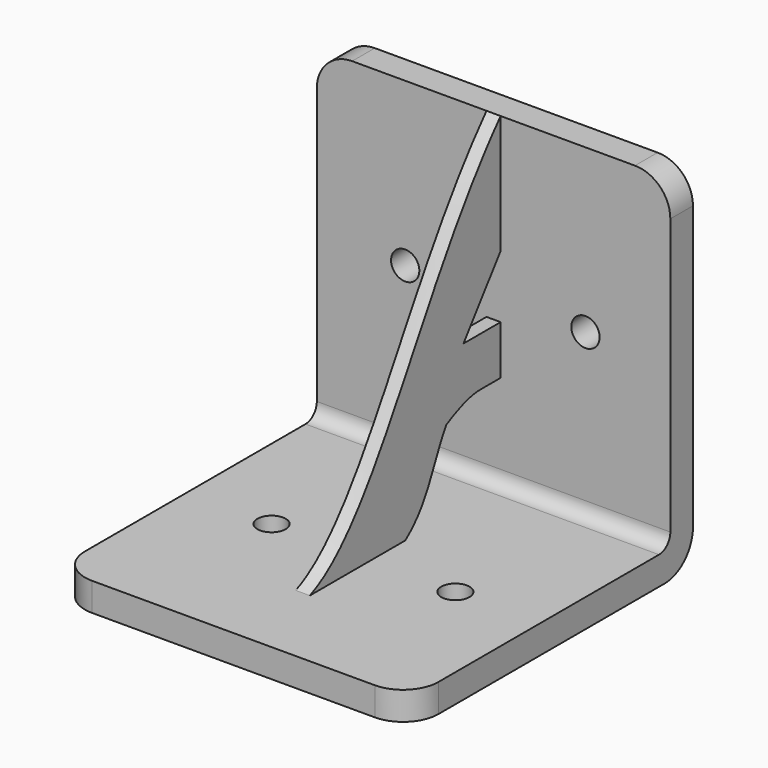
from build123d import *

# Parameters (mm, degrees)
F1_DEPTH         = 50
F3_DEPTH         = 46
F5_DEPTH         = 25
F7_DEPTH         = 25
F8_W             = 3.4296980606
F8_H             = 1.9268138267
F9_DEPTH         = 25
F12_D            = 4
F12_DEPTH        = 16
F12_TIP          = 1.2017212381
F12_ON_F11_D     = 4
F12_ON_F11_DEPTH = 16
F12_ON_F11_TIP   = 1.2017212381
F13_R            = 5
F14_R            = 2
F15_R            = 5


with BuildPart() as f1:
    # F0 (on Right) → F1 (new body)
    with BuildSketch(Plane.YZ):
        Polygon((-50, 4), (-50, 0), (0, 0), (0, 50), (-4, 50), (-4, 4), align=None)
    extrude(amount=F1_DEPTH)

    # F2 (on face) → F3 (join)
    with BuildSketch(Plane.XZ.offset(4)):
        Polygon((25, 50), (24, 50), (24, 4), (26, 4), (26, 50), align=None)
    extrude(amount=F3_DEPTH)

    # F4 (on face) → F5 (cut)
    with BuildSketch(Plane(origin=(24, 0, 0), x_dir=(0, -1, 0), z_dir=(-1, 0, 0))):
        with BuildLine():
            Line((50, 50), (4, 50))
            add(Edge.make_bspline(
                [(4, 50), (18.2273147409, 34.0409380861), (26.0339638541, 8.7697255613), (37.7275896233, 4)],
                knots=[0, 0, 0, 0, 0.6888068808, 0.6888068808, 0.6888068808, 0.6888068808], degree=3))
            Line((37.7275896233, 4), (49.3700235132, 4))
            Line((49.3700235132, 4), (50, 4))
            Line((50, 4), (50, 50))
        make_face()
    extrude(amount=-F5_DEPTH, mode=Mode.SUBTRACT)

    # F6 (on face) → F7 (cut)
    with BuildSketch(Plane(origin=(24, 0, 0), x_dir=(0, -1, 0), z_dir=(-1, 0, 0))):
        with BuildLine():
            Line((4, 4), (20.8637948117, 4))
            add(Edge.make_bspline(
                [(20.8637948117, 4), (16.6060887277, 7.1307057515), (16.0147414533, 11.764077872), (13.590214774, 15.4687128961)],
                knots=[0, 0, 0, 0, 13.5807342238, 13.5807342238, 13.5807342238, 13.5807342238], degree=3))
            add(Edge.make_bspline(
                [(13.590214774, 15.4687128961), (8.6228903383, 18.1297790259), (5.6070159189, 17.9523732513), (4, 15.4687128961)],
                knots=[0, 0, 0, 0, 9.590214774, 9.590214774, 9.590214774, 9.590214774], degree=3))
            Line((4, 15.4687128961), (4, 4))
        make_face()
        Polygon((4, 33.209156245), (4, 24.3389345706), (10.5743389577, 24.3389345706), align=None)
    extrude(amount=-F7_DEPTH, mode=Mode.SUBTRACT)

    # F8 (on face) → F9 (cut)
    with BuildSketch(Plane(origin=(24, 0, 0), x_dir=(0, -1, 0), z_dir=(-1, 0, 0))):
        with Locations((5.7148490303, 16.4321198095)):
            Rectangle(F8_W, F8_H)
    extrude(amount=-F9_DEPTH, mode=Mode.SUBTRACT)

    # F12
    with Locations(Plane.XZ.offset(4)):
        with Locations((12.5, 27), (38, 27)):
            Hole(F12_D / 2, depth=F12_DEPTH)
            with Locations((0, 0, -(F12_DEPTH + F12_TIP / 2))):  # 118° drill point
                Cone(0, F12_D / 2, F12_TIP, mode=Mode.SUBTRACT)

    # F12 on F11
    with Locations(Plane.XY.offset(4)):
        with Locations((38, -27), (12, -27)):
            Hole(F12_ON_F11_D / 2, depth=F12_ON_F11_DEPTH)
            with Locations((0, 0, -(F12_ON_F11_DEPTH + F12_ON_F11_TIP / 2))):  # 118° drill point
                Cone(0, F12_ON_F11_D / 2, F12_ON_F11_TIP, mode=Mode.SUBTRACT)

    # F13
    f13_edges = [f1.edges().sort_by_distance(p)[0] for p in [
        (25, 0, 0),
    ]]
    fillet(f13_edges, radius=F13_R)

    # F14
    f14_edges = [f1.edges().sort_by_distance(p)[0] for p in [
        (25, -4, 4),
    ]]
    fillet(f14_edges, radius=F14_R)

    # F15
    f15_edges = [f1.edges().sort_by_distance(p)[0] for p in [
        (0, -2, 50),
        (50, -2, 50),
        (0, -50, 2),
        (50, -50, 2),
    ]]
    fillet(f15_edges, radius=F15_R)


solid = f1.part
